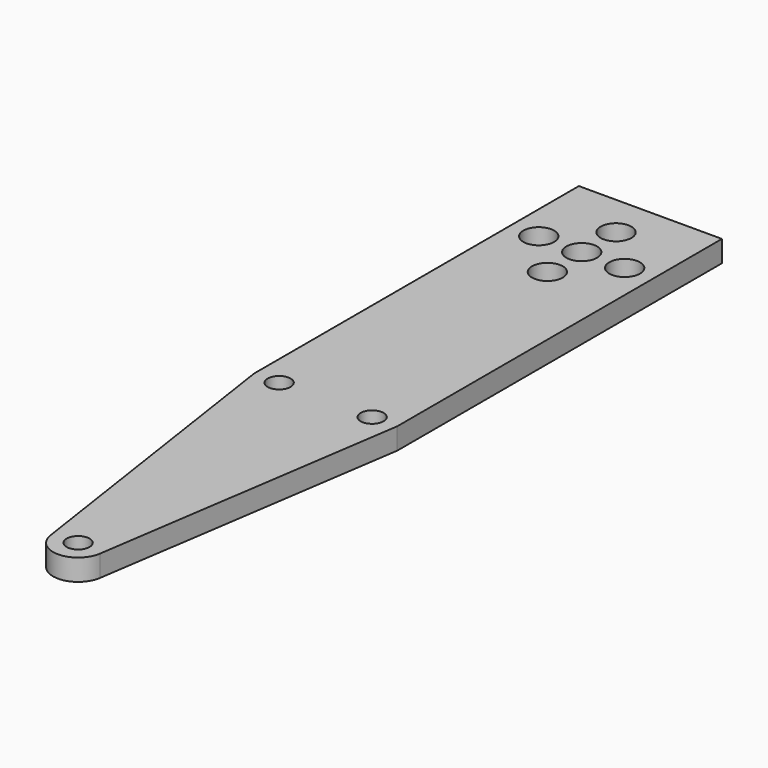
from build123d import *

# Parameters (mm, degrees)
F0_R     = 1.6
F0_R_2   = 2.15
F1_DEPTH = 3


with BuildPart() as f1:
    # F0 (on Top) → F1 (new body)
    with BuildSketch(Plane.XY):
        with BuildLine():
            Line((14.027456, 87.017128), (6.813391, 87.017128))
            Line((6.813391, 87.017128), (0.423599, 87.017128))
            Line((0.423599, 87.017128), (0.423599, 53.2116))
            Line((0.423599, 53.2116), (0.423599, 30.269703))
            Line((0.423599, 30.269703), (6.962008, -13.499972))
            ThreePointArc((6.962008, -13.499972), (10.423599, -16.482872), (13.885189, -13.499972))
            Line((13.885189, -13.499972), (20.423599, 30.269703))
            Line((20.423599, 30.269703), (20.423599, 53.2116))
            Line((20.423599, 53.2116), (20.423599, 87.017128))
            Line((20.423599, 87.017128), (14.027456, 87.017128))
        make_face()
        with Locations((3.923599, 30.269703)):
            Circle(F0_R, mode=Mode.SUBTRACT)
        with Locations((10.423599, -12.982872)):
            Circle(F0_R, mode=Mode.SUBTRACT)
        with Locations((16.923599, 30.269703)):
            Circle(F0_R, mode=Mode.SUBTRACT)
        with Locations((4.423599, 75.017128)):
            Circle(F0_R_2, mode=Mode.SUBTRACT)
        with Locations((10.423599, 81.017128)):
            Circle(F0_R_2, mode=Mode.SUBTRACT)
        with Locations((10.423599, 69.017128)):
            Circle(F0_R_2, mode=Mode.SUBTRACT)
        with Locations((10.423599, 75.017128)):
            Circle(F0_R_2, mode=Mode.SUBTRACT)
        with Locations((16.423599, 75.017128)):
            Circle(F0_R_2, mode=Mode.SUBTRACT)
    extrude(amount=F1_DEPTH)


solid = f1.part
